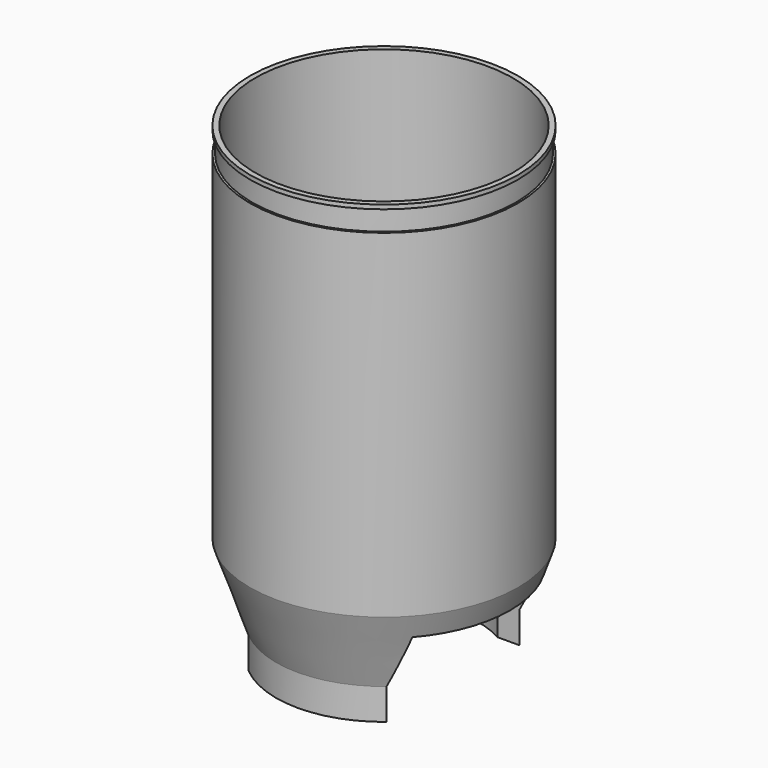
from build123d import *

# Parameters (mm, degrees)
F2_R     = 310
F3_DEPTH = 800
F4_W     = 400
F4_H     = 250
F5_DEPTH = 323.001
F6_DEPTH = 323.001


with BuildPart() as f1:
    # F0 (on Front) → F1 (revolve)
    with BuildSketch(Plane.XZ):
        Polygon((0, 1130), (0, 0), (30, 0), (30, 75), (230, 75), (230, 0), (260, 0), (260, 75), (323, 255), (323, 1070), (318, 1070), (318, 1120), (323, 1120), (323, 1130), align=None)
    revolve(axis=Axis((0, 0, 565), (0, 0, 1)))

    # F2 (on face) → F3 (cut)
    with BuildSketch(Plane.XY.offset(1130)):
        Circle(F2_R)
    extrude(amount=-F3_DEPTH, mode=Mode.SUBTRACT)

    # F4 (on Right) → F5 (cut, through all)
    with BuildSketch(Plane.YZ):
        with Locations((0, 75)):
            Rectangle(F4_W, F4_H)
    extrude(amount=-F5_DEPTH, mode=Mode.SUBTRACT)

    # F4 (on Right) → F6 (cut, through all)
    with BuildSketch(Plane.YZ):
        with Locations((0, 75)):
            Rectangle(F4_W, F4_H)
    extrude(amount=F6_DEPTH, mode=Mode.SUBTRACT)


solid = f1.part
